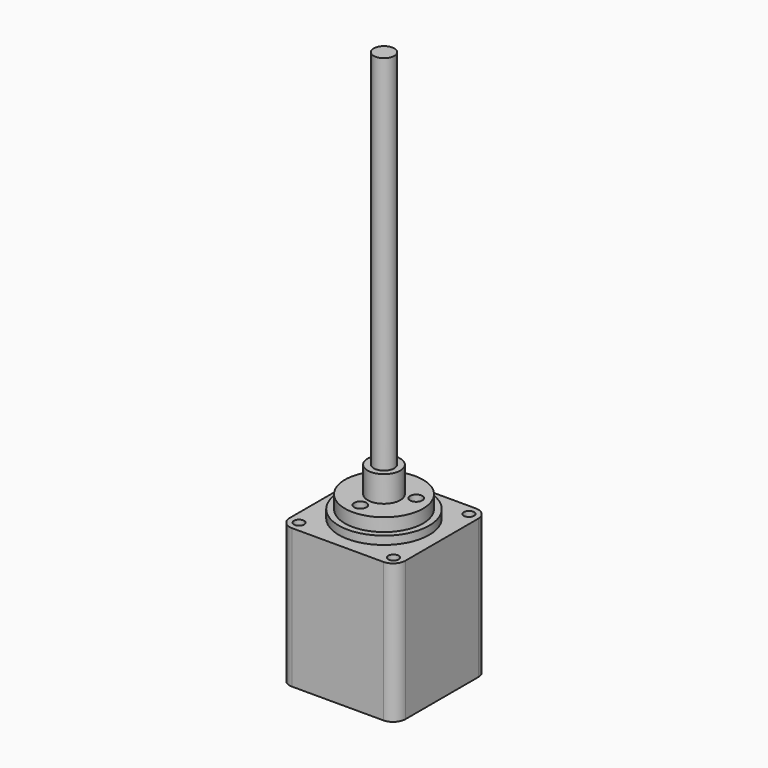
from build123d import *

# Parameters (mm, degrees)
F0_W      = 28.2
F0_H      = 34
F1_DEPTH  = 14.1
F2_R      = 1.25
F3_DEPTH  = 3.5
F4_R      = 11
F5_DEPTH  = 2
F6_R      = 2.5
F7_DEPTH  = 100
F8_R      = 3
F9_R      = 9.525
F9_R_2    = 2.5
F10_DEPTH = 3.18
F11_R     = 3.97
F11_R_2   = 2.5
F12_DEPTH = 9.53
F13_R     = 1.5
F14_DEPTH = 3.18


with BuildPart() as f1:
    # F0 (on Front) → F1 (new body, symmetric)
    with BuildSketch(Plane.XZ):
        with Locations((0, -17)):
            Rectangle(F0_W, F0_H)
    extrude(amount=F1_DEPTH, both=True)

    # F2 (on face) → F3 (cut)
    with BuildSketch(Plane.XY):
        with Locations((11.5, 11.5)):
            Circle(F2_R)
        with Locations((11.5, -11.5)):
            Circle(F2_R)
        with Locations((-11.5, -11.5)):
            Circle(F2_R)
        with Locations((-11.5, 11.5)):
            Circle(F2_R)
    extrude(amount=-F3_DEPTH, mode=Mode.SUBTRACT)

    # F4 (on face) → F5 (join)
    with BuildSketch(Plane.XY):
        Circle(F4_R)
    extrude(amount=F5_DEPTH)

    # F8
    f8_edges = [f1.edges().sort_by_distance(p)[0] for p in [
        (-14.1, 14.1, -17),
        (14.1, 14.1, -17),
        (-14.1, -14.1, -17),
        (14.1, -14.1, -17),
    ]]
    fillet(f8_edges, radius=F8_R)


with BuildPart() as f7:
    # F6 (on face) → F7 (new body)
    with BuildSketch(Plane.XY):
        Circle(F6_R)
    extrude(amount=F7_DEPTH)


with BuildPart() as f10:
    # F9 (on face) → F10 (new body)
    with BuildSketch(Plane.XY.offset(2)):
        Circle(F9_R)
        Circle(F9_R_2, mode=Mode.SUBTRACT)
    extrude(amount=F10_DEPTH)

    # F11 (on face) → F12 (join)
    with BuildSketch(Plane.XY.offset(2)):
        Circle(F11_R)
        Circle(F11_R_2, mode=Mode.SUBTRACT)
    extrude(amount=F12_DEPTH)

    # F13 (on face) → F14 (cut, through all)
    with BuildSketch(Plane.XY.offset(2)):
        with Locations((5.8188930752, 2.5422398352)):
            Circle(F13_R)
        with Locations((-5.1110908174, 3.7681893074)):
            Circle(F13_R)
        with Locations((-0.7078022578, -6.3104291426)):
            Circle(F13_R)
    extrude(amount=F14_DEPTH, mode=Mode.SUBTRACT)


solid = Compound([f1.part, f7.part, f10.part])
